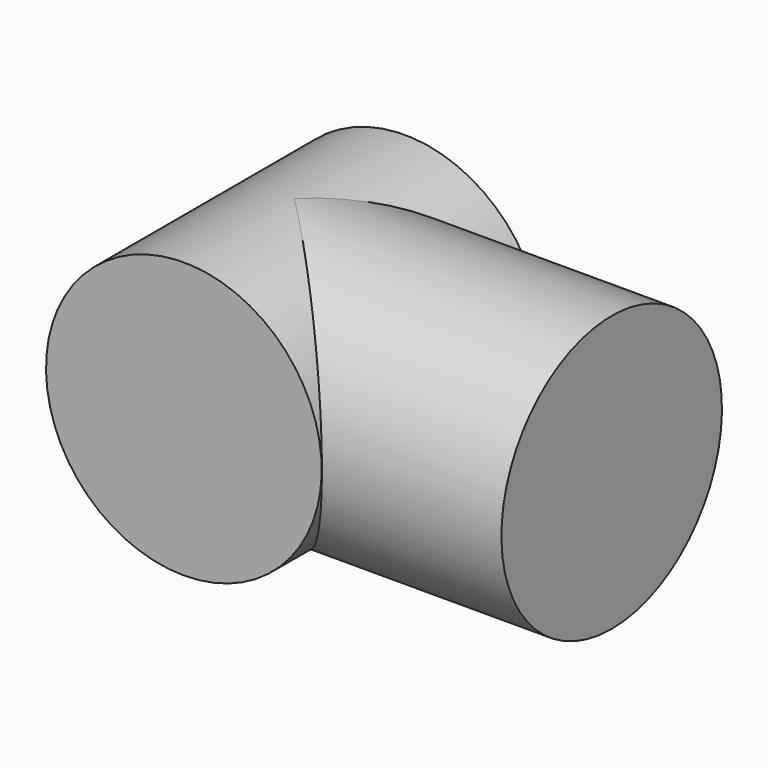
from build123d import *

# Parameters (mm, degrees)
CYLINDER064_R             = 13.9827
CYLINDER064_DEPTH         = 28.0162
CYLINDER063_R             = 13.9827
CYLINDER063_DEPTH         = 32.1945
FUSION024_PLACEMENT_ANGLE = 90


with BuildPart() as cylinder064:
    # Cylinder064 → Cylinder064 (new body)
    with BuildSketch(Plane.XZ.offset(-14.0081)):
        Circle(CYLINDER064_R)
    extrude(amount=CYLINDER064_DEPTH)


with BuildPart() as rear_outer_slip_r:
    # Cylinder063 → Cylinder063 (new body)
    with BuildSketch(Plane.XY):
        Circle(CYLINDER063_R)
    extrude(amount=CYLINDER063_DEPTH)

    # Fusion024: union Cylinder064
    add(cylinder064.part)


with BuildPart() as rear_outer_slip_r_1:
    # Fusion024 placement: moved
    add(rear_outer_slip_r.part.moved(Location((-452, 217, -18))).rotate(Axis((-452, 217, -18), (0, 1, 0)), FUSION024_PLACEMENT_ANGLE))


solid = rear_outer_slip_r_1.part
